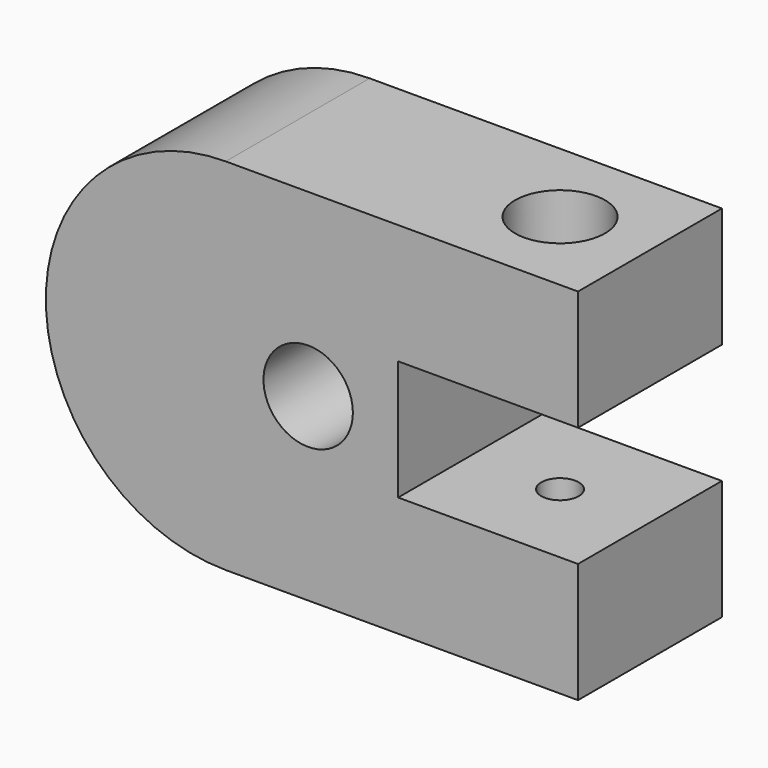
from build123d import *

# Parameters (mm, degrees)
F0_R     = 18.931499
F1_DEPTH = 76.2
F4_D     = 38.1
F4_DEPTH = 50.8
F5_D     = 15.875
F5_DEPTH = 50.8


with BuildPart() as f1:
    # F0 (on Front) → F1 (new body)
    with BuildSketch(Plane.XZ):
        with BuildLine():
            Line((0, -152.4), (0, 0))
            ThreePointArc((0, 0), (-76.2, -76.2), (0, -152.4))
        make_face()
        Polygon((149.225, 0), (0, 0), (0, -152.4), (149.225, -152.4), (149.225, -101.6), (73.025, -101.6), (73.025, -50.8), (149.225, -50.8), align=None)
        with Locations((34.925, -76.2)):
            Circle(F0_R, mode=Mode.SUBTRACT)
    extrude(amount=F1_DEPTH)

    # F4
    with Locations(Plane(origin=(0, 0, -50.8), x_dir=(1, 0, 0), z_dir=(0, 0, -1))):
        with Locations((111.125, 38.1)):
            Hole(F4_D / 2, depth=F4_DEPTH)

    # F5
    with Locations(Plane.XY.offset(-101.6)):
        with Locations((111.125, -38.1)):
            Hole(F5_D / 2, depth=F5_DEPTH)


solid = f1.part
